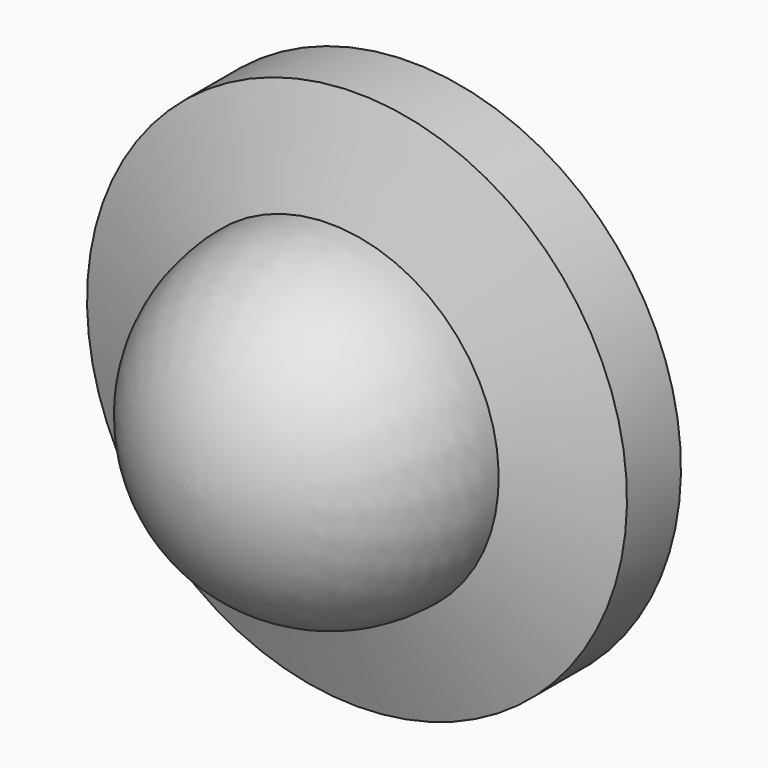
from build123d import *


with BuildPart() as f2:
    # F1 (on Right) → F2 (revolve)
    with BuildSketch(Plane.YZ):
        with BuildLine():
            Line((-1.5, -2.5), (0, -2.5))
            Line((0, -2.5), (0, 0))
            Line((0, 0), (-1.5, 0))
            Line((-1.5, 0), (-4, 0))
            ThreePointArc((-4, 0), (-3.267767, -1.767767), (-1.5, -2.5))
        make_face()
        Polygon((-1, -4), (0, -4), (0, -2.5), (-1.5, -2.5), align=None)
    revolve(axis=Axis((0, -0.75, 0), (0, 1, 0)))


solid = f2.part
